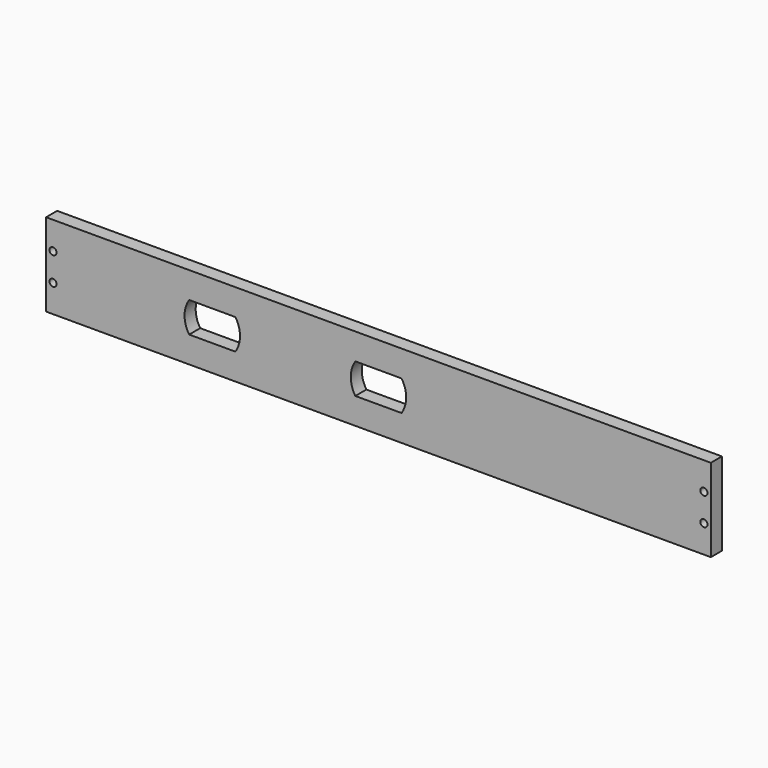
from build123d import *

# Parameters (mm, degrees)
F0_W           = 304.8
F0_H           = 6.35
F1_DEPTH       = 38.1
F3_D           = 2.7051
F3_DEPTH       = 15.08125
F3_TIP         = 0.8126940303
F5_D           = 3.2639
F5_CSINK_D     = 6.477
F5_CSINK_ANGLE = 82
F7_DEPTH       = 25.4


with BuildPart() as f1:
    # F0 (on Top) → F1 (new body)
    with BuildSketch(Plane.XY):
        Rectangle(F0_W, F0_H)
    extrude(amount=F1_DEPTH)

    # F3
    with Locations(Plane(origin=(0, 0, 0), x_dir=(1, 0, 0), z_dir=(0, 0, -1))):
        with Locations((-127, 0), (127, 0), (25.4, 0)):
            Hole(F3_D / 2, depth=F3_DEPTH)
            with Locations((0, 0, -(F3_DEPTH + F3_TIP / 2))):  # 118° drill point
                Cone(0, F3_D / 2, F3_TIP, mode=Mode.SUBTRACT)

    # F5 (through all)
    with Locations(Plane(origin=(0, 3.175, 0), x_dir=(-1, 0, 0), z_dir=(0, 1, 0))):
        with Locations((-149.225, 25.4), (-149.225, 12.7), (149.225, 25.4), (149.225, 12.7)):
            CounterSinkHole(F5_D / 2, F5_CSINK_D / 2, counter_sink_angle=F5_CSINK_ANGLE)

    # F6 (on face) → F7 (cut)
    with BuildSketch(Plane(origin=(0, 3.175, 0), x_dir=(-1, 0, 0), z_dir=(0, 1, 0))):
        with BuildLine():
            Line((10.6065911112, 26.035), (-10.6065911112, 26.035))
            ThreePointArc((-10.6065911112, 26.035), (-12.7, 19.05), (-10.6065911112, 12.065))
            Line((-10.6065911112, 12.065), (10.6065911112, 12.065))
            ThreePointArc((10.6065911112, 12.065), (12.7, 19.05), (10.6065911112, 26.035))
        make_face()
        with BuildLine():
            Line((65.5934088888, 12.065), (86.8065911112, 12.065))
            ThreePointArc((86.8065911112, 12.065), (88.9, 19.05), (86.8065911112, 26.035))
            Line((86.8065911112, 26.035), (65.5934088888, 26.035))
            ThreePointArc((65.5934088888, 26.035), (63.5, 19.05), (65.5934088888, 12.065))
        make_face()
    extrude(amount=-F7_DEPTH, mode=Mode.SUBTRACT)


solid = f1.part
